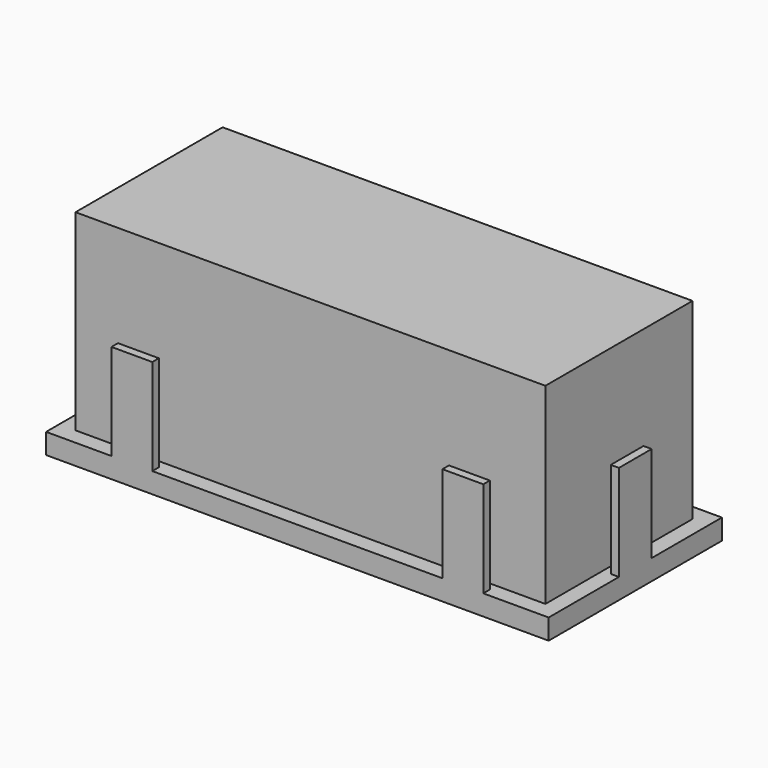
from build123d import *

# Parameters (mm, degrees)
F0_W     = 115
F0_H     = 45
F1_DEPTH = 47
F2_W     = 123
F2_H     = 53
F3_DEPTH = 5
F4_W     = 10
F4_H     = 2
F4_W_2   = 2
F4_H_2   = 10
F5_DEPTH = 23.5
F7_R     = 2
F8_DEPTH = 5


with BuildPart() as f1:
    # F0 (on Top) → F1 (new body)
    with BuildSketch(Plane.XY):
        with Locations((57.5, -22.5)):
            Rectangle(F0_W, F0_H)
    extrude(amount=F1_DEPTH)


with BuildPart() as f3:
    # F2 (on Top) → F3 (new body)
    with BuildSketch(Plane.XY):
        with Locations((57.5, -22.5)):
            Rectangle(F2_W, F2_H)
    extrude(amount=-F3_DEPTH)

    # F4 (on face) → F5 (join)
    with BuildSketch(Plane.XY):
        with Locations((17, 3)):
            Rectangle(F4_W, F4_H)
        with Locations((-3, -22.5)):
            Rectangle(F4_W_2, F4_H_2)
        with Locations((17, -48)):
            Rectangle(F4_W, F4_H)
        with Locations((98, -48)):
            Rectangle(F4_W, F4_H)
        with Locations((98, 3)):
            Rectangle(F4_W, F4_H)
        with Locations((118, -22.5)):
            Rectangle(F4_W_2, F4_H_2)
    extrude(amount=F5_DEPTH)

    # F7 (on face) → F8 (cut, through all)
    with BuildSketch(Plane(origin=(0, 0, -5), x_dir=(1, 0, 0), z_dir=(0, 0, -1))):
        with Locations((80, 39.5)):
            Circle(F7_R)
        with Locations((35, 39.5)):
            Circle(F7_R)
    extrude(amount=-F8_DEPTH, mode=Mode.SUBTRACT)


solid = Compound([f1.part, f3.part])
